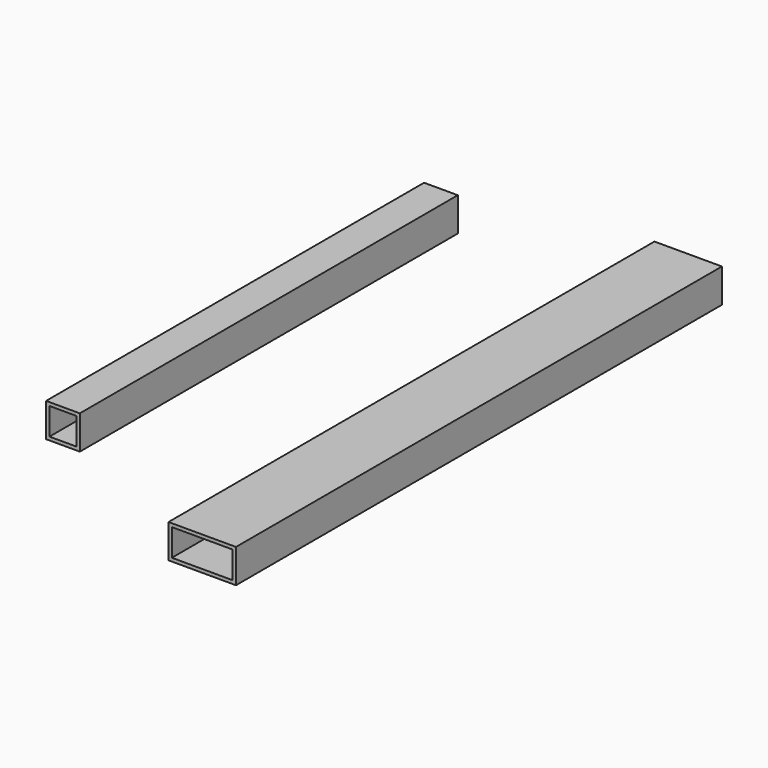
from build123d import *

# Parameters (mm, degrees)
F0_W     = 50.8
F0_H     = 457.2
F1_DEPTH = 12.7
F2_T     = -2.54
F3_W     = 25.4
F3_H     = 355.6
F4_DEPTH = 12.7
F5_T     = -2.54


with BuildPart() as f1:
    # F0 (on Top) → F1 (new body, symmetric)
    with BuildSketch(Plane.XY):
        with Locations((11.285979, -9.875271)):
            Rectangle(F0_W, F0_H)
    extrude(amount=F1_DEPTH, both=True)

    # F2
    f2_openings = [f1.faces().sort_by_distance(p)[0] for p in [
        (11.285979, 218.724729, 0),
        (11.285979, -238.475271, 0),
    ]]
    offset(amount=F2_T, openings=f2_openings)


with BuildPart() as f4:
    # F3 (on Top) → F4 (new body, symmetric)
    with BuildSketch(Plane.XY):
        with Locations((-153.918764, 14.77845)):
            Rectangle(F3_W, F3_H)
    extrude(amount=F4_DEPTH, both=True)

    # F5
    f5_openings = [f4.faces().sort_by_distance(p)[0] for p in [
        (-153.918764, 192.57845, 0),
        (-153.918764, -163.02155, 0),
    ]]
    offset(amount=F5_T, openings=f5_openings)


solid = Compound([f1.part, f4.part])
